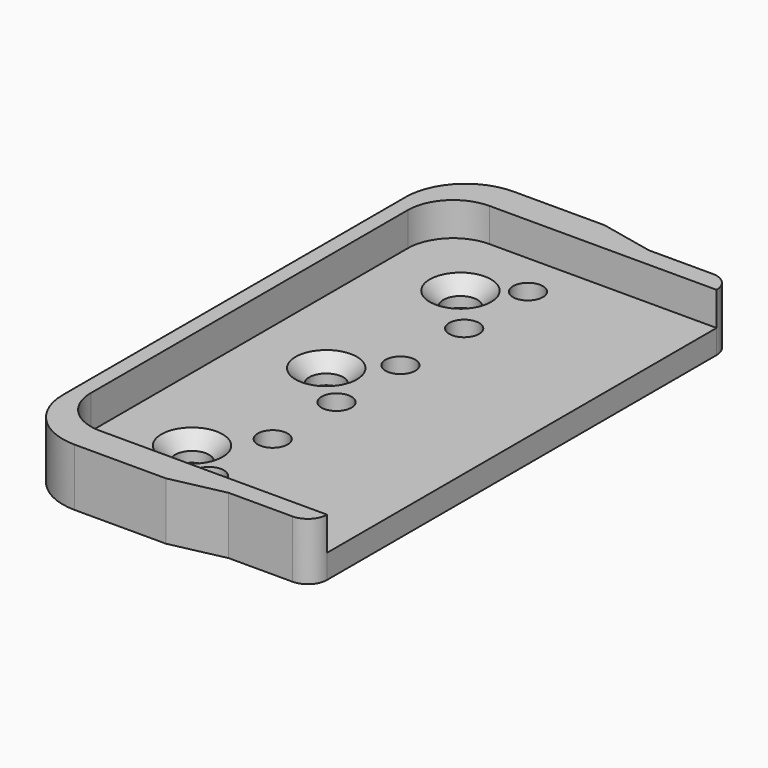
from build123d import *

# Parameters (mm, degrees)
F0_R     = 2.26
F0_R_2   = 1.98
F1_DEPTH = 3.17
F2_DEPTH = 7.62
F3_SIZE  = 1.8


with BuildPart() as f1:
    # F0 (on Top) → F1 (new body)
    with BuildSketch(Plane.XY):
        with BuildLine():
            Line((0, -32.255), (0, 0))
            Line((0, 0), (0, 32.255))
            Line((0, 32.255), (-30.1, 32.255))
            ThreePointArc((-30.1, 32.255), (-34.342641, 30.497641), (-36.1, 26.255))
            Line((-36.1, 26.255), (-36.1, -26.255))
            ThreePointArc((-36.1, -26.255), (-34.342641, -30.497641), (-30.1, -32.255))
            Line((-30.1, -32.255), (0, -32.255))
        make_face()
        with Locations((-25.91, -22.225)):
            Circle(F0_R, mode=Mode.SUBTRACT)
        with Locations((-20.32, -26.415)):
            Circle(F0_R_2, mode=Mode.SUBTRACT)
        with Locations((-20.32, -15.855)):
            Circle(F0_R_2, mode=Mode.SUBTRACT)
        with Locations((-20.32, -5.295)):
            Circle(F0_R_2, mode=Mode.SUBTRACT)
        with Locations((-25.91, 0)):
            Circle(F0_R, mode=Mode.SUBTRACT)
        with Locations((-20.32, 5.295)):
            Circle(F0_R_2, mode=Mode.SUBTRACT)
        with Locations((-20.32, 15.855)):
            Circle(F0_R_2, mode=Mode.SUBTRACT)
        with Locations((-25.91, 22.225)):
            Circle(F0_R, mode=Mode.SUBTRACT)
        with Locations((-20.32, 26.415)):
            Circle(F0_R_2, mode=Mode.SUBTRACT)
        with BuildLine():
            Line((-30.1, 32.255), (0, 32.255))
            ThreePointArc((0, 32.255), (-0.743949, 34.051051), (-2.54, 34.795))
            Line((-2.54, 34.795), (-11, 34.795))
            Line((-11, 34.795), (-18.1, 36.32))
            Line((-18.1, 36.32), (-30.1752, 36.32))
            ThreePointArc((-30.1752, 36.32), (-35.77888, 33.99888), (-38.1, 28.3952))
            Line((-38.1, 28.3952), (-38.1, 0))
            Line((-38.1, 0), (-38.1, -28.3952))
            ThreePointArc((-38.1, -28.3952), (-35.77888, -33.99888), (-30.1752, -36.32))
            Line((-30.1752, -36.32), (-18.1, -36.32))
            Line((-18.1, -36.32), (-11, -34.795))
            Line((-11, -34.795), (-2.54, -34.795))
            ThreePointArc((-2.54, -34.795), (-0.743949, -34.051051), (0, -32.255))
            Line((0, -32.255), (-30.1, -32.255))
            ThreePointArc((-30.1, -32.255), (-34.342641, -30.497641), (-36.1, -26.255))
            Line((-36.1, -26.255), (-36.1, 26.255))
            ThreePointArc((-36.1, 26.255), (-34.342641, 30.497641), (-30.1, 32.255))
        make_face()
    extrude(amount=F1_DEPTH)

    # F0 (on Top) → F2 (join)
    with BuildSketch(Plane.XY):
        with BuildLine():
            Line((-30.1, 32.255), (0, 32.255))
            ThreePointArc((0, 32.255), (-0.743949, 34.051051), (-2.54, 34.795))
            Line((-2.54, 34.795), (-11, 34.795))
            Line((-11, 34.795), (-18.1, 36.32))
            Line((-18.1, 36.32), (-30.1752, 36.32))
            ThreePointArc((-30.1752, 36.32), (-35.77888, 33.99888), (-38.1, 28.3952))
            Line((-38.1, 28.3952), (-38.1, 0))
            Line((-38.1, 0), (-38.1, -28.3952))
            ThreePointArc((-38.1, -28.3952), (-35.77888, -33.99888), (-30.1752, -36.32))
            Line((-30.1752, -36.32), (-18.1, -36.32))
            Line((-18.1, -36.32), (-11, -34.795))
            Line((-11, -34.795), (-2.54, -34.795))
            ThreePointArc((-2.54, -34.795), (-0.743949, -34.051051), (0, -32.255))
            Line((0, -32.255), (-30.1, -32.255))
            ThreePointArc((-30.1, -32.255), (-34.342641, -30.497641), (-36.1, -26.255))
            Line((-36.1, -26.255), (-36.1, 26.255))
            ThreePointArc((-36.1, 26.255), (-34.342641, 30.497641), (-30.1, 32.255))
        make_face()
    extrude(amount=F2_DEPTH)

    # F3
    f3_edges = [f1.edges().sort_by_distance(p)[0] for p in [
        (-28.17, -22.225, 3.17),
        (-28.17, 0, 3.17),
        (-28.17, 22.225, 3.17),
    ]]
    chamfer(f3_edges, length=F3_SIZE)


with BuildPart() as f4_1:
    # F4: copy of F1
    add(f1.part)


solid = f1.part
